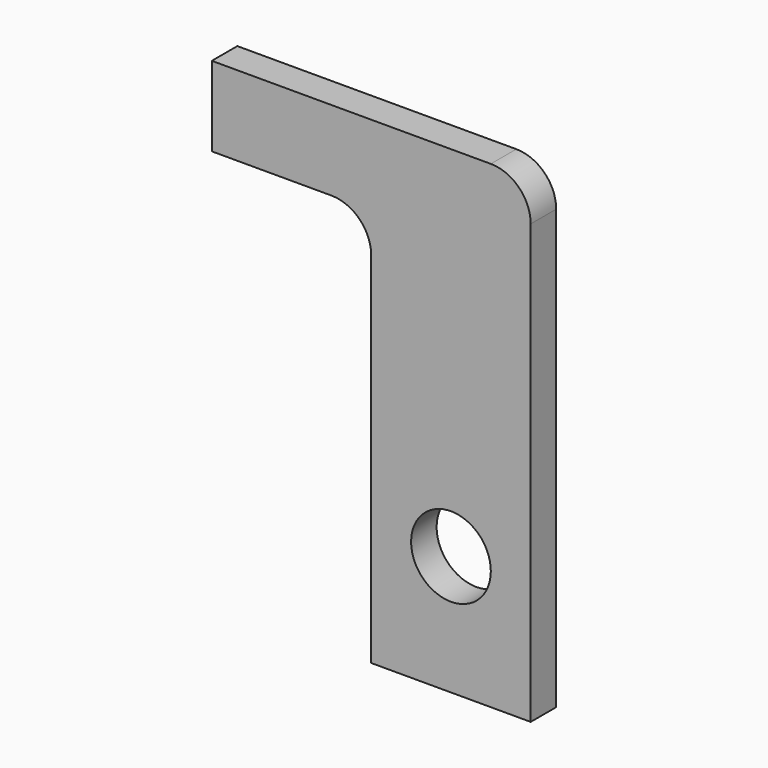
from build123d import *

# Parameters (mm, degrees)
F1_DEPTH = 5.08


with BuildPart() as f1:
    # F0 (on Front) → F1 (new body)
    with BuildSketch(Plane.XZ):
        with BuildLine():
            Line((-20.107991, 45.924963), (-45.507991, 45.924963))
            Line((-45.507991, 45.924963), (-45.507991, 33.224963))
            Line((-45.507991, 33.224963), (-26.457991, 33.224963))
            ThreePointArc((-26.457991, 33.224963), (-21.967863, 31.365091), (-20.107991, 26.874963))
            Line((-20.107991, 26.874963), (-20.107991, -30.275037))
            Line((-20.107991, -30.275037), (5.292009, -30.275037))
            Line((5.292009, -30.275037), (5.292009, 39.574963))
            ThreePointArc((5.292009, 39.574963), (3.432137, 44.065091), (-1.057991, 45.924963))
            Line((-1.057991, 45.924963), (-7.921759, 45.924963))
            Line((-7.921759, 45.924963), (-20.107991, 45.924963))
        make_face()
        with BuildLine():
            ThreePointArc((-1.057991, -11.204219), (-11.712644, -15.872459), (-7.921759, -4.875037))
            ThreePointArc((-7.921759, -4.875037), (-3.103338, -6.535979), (-1.057991, -11.204219))
        make_face(mode=Mode.SUBTRACT)
    extrude(amount=F1_DEPTH)


solid = f1.part
